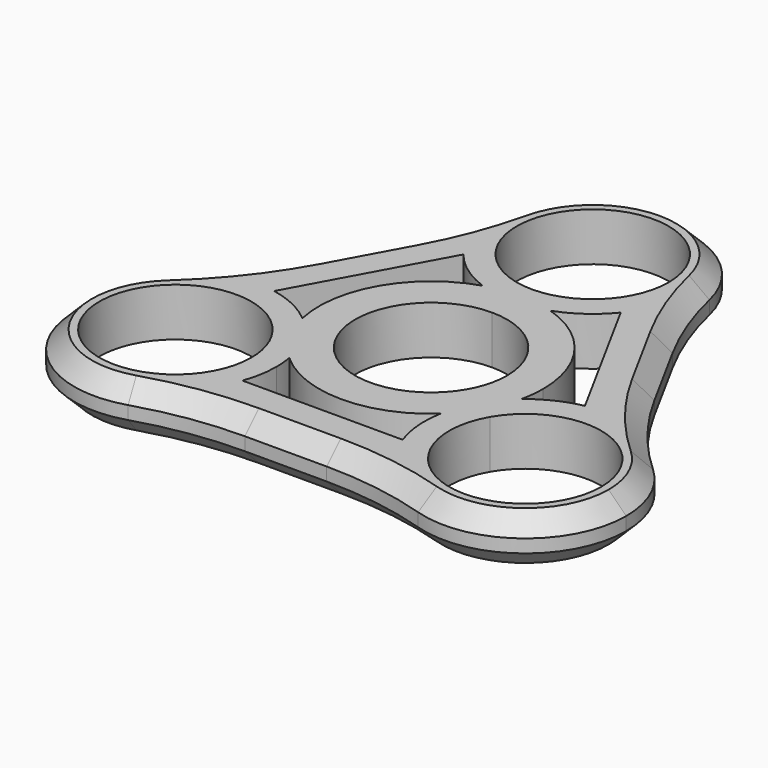
from build123d import *

# Parameters (mm, degrees)
F1_DEPTH = 6.985
F2_R     = 50.8
F3_SIZE  = 2.54


with BuildPart() as f1:
    # F0 (on Top) → F1 (new body)
    with BuildSketch(Plane.XY):
        with BuildLine():
            Line((-22.4686733496, -0.2763976852), (-11.3768203047, 20.0517258855))
            ThreePointArc((-11.3768203047, 20.0517258855), (-13.5749073132, 23.8222438401), (-14.5607446546, 28.0738925649))
            Line((-14.5607446546, 28.0738925649), (-30.3766020445, -0.9119497554))
            ThreePointArc((-30.3766020445, -0.9119497554), (-26.4666182407, -0.0469408196), (-22.4686733496, -0.2763976852))
        make_face()
        with BuildLine():
            ThreePointArc((14.5607446546, 28.0738925649), (13.5749073132, 23.8222438401), (11.3768203047, 20.0517258855))
            Line((11.3768203047, 20.0517258855), (22.4686733496, -0.2763976852))
            ThreePointArc((22.4686733496, -0.2763976852), (26.4666182407, -0.0469408196), (30.3766020445, -0.9119497554))
            Line((30.3766020445, -0.9119497554), (14.5607446546, 28.0738925649))
        make_face()
        with BuildLine():
            ThreePointArc((-4.8932738406, 15.4491171751), (-2.4756966767, 16.0153138069), (0, 16.2055345598))
            ThreePointArc((0, 16.2055345598), (2.4756966767, 16.0153138069), (4.8932738406, 15.4491171751))
            ThreePointArc((4.8932738406, 15.4491171751), (8.4542884153, 17.3007165459), (11.3768203047, 20.0517258855))
            ThreePointArc((11.3768203047, 20.0517258855), (13.5749073132, 23.8222438401), (14.5607446546, 28.0738925649))
            ThreePointArc((14.5607446546, 28.0738925649), (14.5939319698, 28.6415154708), (14.605, 29.21))
            ThreePointArc((14.605, 29.21), (-0.5684845292, 43.8039319698), (-14.5607446546, 28.0738925649))
            ThreePointArc((-14.5607446546, 28.0738925649), (-13.5749073132, 23.8222438401), (-11.3768203047, 20.0517258855))
            ThreePointArc((-11.3768203047, 20.0517258855), (-8.4542884153, 17.3007165459), (-4.8932738406, 15.4491171751))
        make_face()
        with BuildLine():
            ThreePointArc((10.9855, 29.21), (7.7679215447, 21.4420784553), (0, 18.2245))
            ThreePointArc((0, 18.2245), (-7.7679215447, 36.9779215447), (10.9855, 29.21))
        make_face(mode=Mode.SUBTRACT)
        with BuildLine():
            Line((0, 16.2055345598), (0, 14.605))
            ThreePointArc((0, 14.605), (2.4827737857, 14.8175763219), (4.8932738406, 15.4491171751))
            ThreePointArc((4.8932738406, 15.4491171751), (2.4756966767, 16.0153138069), (0, 16.2055345598))
        make_face()
        with BuildLine():
            ThreePointArc((-4.8932738406, 15.4491171751), (-2.4827737857, 14.8175763219), (0, 14.605))
            Line((0, 14.605), (0, 16.2055345598))
            ThreePointArc((0, 16.2055345598), (-2.4756966767, 16.0153138069), (-4.8932738406, 15.4491171751))
        make_face()
        with BuildLine():
            ThreePointArc((0, 10.9855), (7.7679215447, 7.7679215447), (10.9855, 0))
            ThreePointArc((10.9855, 0), (10.6111781647, -2.84325662), (9.5137220733, -5.49275))
            Line((9.5137220733, -5.49275), (12.6483010223, -7.3025))
            ThreePointArc((12.6483010223, -7.3025), (14.0737844102, -5.2586429907), (15.82596486, -3.4868591339))
            ThreePointArc((15.82596486, -3.4868591339), (16.1103626721, -1.7537288685), (16.2055345598, 0))
            ThreePointArc((16.2055345598, 0), (13.0751189039, 9.5739550875), (4.8932738406, 15.4491171751))
            ThreePointArc((4.8932738406, 15.4491171751), (2.4827737857, 14.8175763219), (0, 14.605))
            Line((0, 14.605), (0, 10.9855))
        make_face()
        with BuildLine():
            ThreePointArc((-9.5137220733, -5.49275), (-9.5137220733, 5.49275), (0, 10.9855))
            Line((0, 10.9855), (0, 14.605))
            ThreePointArc((0, 14.605), (-2.4827737857, 14.8175763219), (-4.8932738406, 15.4491171751))
            ThreePointArc((-4.8932738406, 15.4491171751), (-14.0344046107, 8.1027672799), (-15.82596486, -3.4868591339))
            ThreePointArc((-15.82596486, -3.4868591339), (-14.0737844102, -5.2586429907), (-12.6483010223, -7.3025))
            Line((-12.6483010223, -7.3025), (-9.5137220733, -5.49275))
        make_face()
        with BuildLine():
            Line((12.6483010223, -7.3025), (9.5137220733, -5.49275))
            ThreePointArc((9.5137220733, -5.49275), (0, -10.9855), (-9.5137220733, -5.49275))
            Line((-9.5137220733, -5.49275), (-12.6483010223, -7.3025))
            ThreePointArc((-12.6483010223, -7.3025), (-11.5910106244, -9.5589333313), (-10.9326910194, -11.9622580412))
            ThreePointArc((-10.9326910194, -11.9622580412), (0, -16.2055345598), (10.9326910194, -11.9622580412))
            ThreePointArc((10.9326910194, -11.9622580412), (11.5910106244, -9.5589333313), (12.6483010223, -7.3025))
        make_face()
        with BuildLine():
            ThreePointArc((16.51, -26.2712611625), (13.5628030503, -23.3012052737), (11.5786636953, -19.6174038591))
            Line((11.5786636953, -19.6174038591), (-11.5786636953, -19.6174038591))
            ThreePointArc((-11.5786636953, -19.6174038591), (-13.5628030503, -23.3012052737), (-16.51, -26.2712611625))
            Line((-16.51, -26.2712611625), (16.51, -26.2712611625))
        make_face()
        with BuildLine():
            ThreePointArc((-10.9326910194, -11.9622580412), (-12.6318202681, -10.1516731175), (-14.0344046107, -8.1027672799))
            ThreePointArc((-14.0344046107, -8.1027672799), (-15.1075169447, -5.8636406894), (-15.82596486, -3.4868591339))
            ThreePointArc((-15.82596486, -3.4868591339), (-18.94125419, -1.4552631719), (-22.4686733496, -0.2763976852))
            ThreePointArc((-22.4686733496, -0.2763976852), (-26.4666182407, -0.0469408196), (-30.3766020445, -0.9119497554))
            ThreePointArc((-30.3766020445, -0.9119497554), (-38.1109843332, -21.6119702127), (-16.51, -26.2712611625))
            ThreePointArc((-16.51, -26.2712611625), (-13.5628030503, -23.3012052737), (-11.5786636953, -19.6174038591))
            ThreePointArc((-11.5786636953, -19.6174038591), (-10.9150771847, -17.1501459103), (-10.6916020445, -14.605))
            ThreePointArc((-10.6916020445, -14.605), (-10.7519991706, -13.2781419674), (-10.9326910194, -11.9622580412))
        make_face()
        with BuildLine():
            ThreePointArc((-14.3111020445, -14.605), (-35.9077802092, -17.44825662), (-15.7828799713, -9.11225))
            ThreePointArc((-15.7828799713, -9.11225), (-14.6854238798, -11.76174338), (-14.3111020445, -14.605))
        make_face(mode=Mode.SUBTRACT)
        with BuildLine():
            ThreePointArc((-10.9326910194, -11.9622580412), (-11.5910106244, -9.5589333313), (-12.6483010223, -7.3025))
            Line((-12.6483010223, -7.3025), (-14.0344046107, -8.1027672799))
            ThreePointArc((-14.0344046107, -8.1027672799), (-12.6318202681, -10.1516731175), (-10.9326910194, -11.9622580412))
        make_face()
        with BuildLine():
            Line((-14.0344046107, -8.1027672799), (-12.6483010223, -7.3025))
            ThreePointArc((-12.6483010223, -7.3025), (-14.0737844102, -5.2586429907), (-15.82596486, -3.4868591339))
            ThreePointArc((-15.82596486, -3.4868591339), (-15.1075169447, -5.8636406894), (-14.0344046107, -8.1027672799))
        make_face()
        with BuildLine():
            Line((14.0344046107, -8.1027672799), (12.6483010223, -7.3025))
            ThreePointArc((12.6483010223, -7.3025), (11.5910106244, -9.5589333313), (10.9326910194, -11.9622580412))
            ThreePointArc((10.9326910194, -11.9622580412), (12.6318202681, -10.1516731175), (14.0344046107, -8.1027672799))
        make_face()
        with BuildLine():
            ThreePointArc((15.82596486, -3.4868591339), (15.1075169447, -5.8636406894), (14.0344046107, -8.1027672799))
            ThreePointArc((14.0344046107, -8.1027672799), (12.6318202681, -10.1516731175), (10.9326910194, -11.9622580412))
            ThreePointArc((10.9326910194, -11.9622580412), (10.7433247351, -15.8330653708), (11.5786636953, -19.6174038591))
            ThreePointArc((11.5786636953, -19.6174038591), (13.5628030503, -23.3012052737), (16.51, -26.2712611625))
            ThreePointArc((16.51, -26.2712611625), (31.8149493097, -27.6747044316), (39.9016020445, -14.605))
            ThreePointArc((39.9016020445, -14.605), (37.2861688632, -6.2649572843), (30.3766020445, -0.9119497554))
            ThreePointArc((30.3766020445, -0.9119497554), (26.4666182407, -0.0469408196), (22.4686733496, -0.2763976852))
            ThreePointArc((22.4686733496, -0.2763976852), (18.94125419, -1.4552631719), (15.82596486, -3.4868591339))
        make_face()
        with BuildLine():
            ThreePointArc((36.2821020445, -14.605), (22.4533454246, -25.2161781647), (15.7828799713, -9.11225))
            ThreePointArc((15.7828799713, -9.11225), (28.1398586645, -3.9938218353), (36.2821020445, -14.605))
        make_face(mode=Mode.SUBTRACT)
        with BuildLine():
            ThreePointArc((15.82596486, -3.4868591339), (14.0737844102, -5.2586429907), (12.6483010223, -7.3025))
            Line((12.6483010223, -7.3025), (14.0344046107, -8.1027672799))
            ThreePointArc((14.0344046107, -8.1027672799), (15.1075169447, -5.8636406894), (15.82596486, -3.4868591339))
        make_face()
    extrude(amount=F1_DEPTH)

    # F2
    f2_edges = [f1.edges().sort_by_distance(p)[0] for p in [
        (-14.560745, 28.073893, 3.4925),
        (-30.376602, -0.91195, 3.4925),
        (16.51, -26.271261, 3.4925),
        (-16.51, -26.271261, 3.4925),
        (14.560745, 28.073893, 3.4925),
        (30.376602, -0.91195, 3.4925),
    ]]
    fillet(f2_edges, radius=F2_R)

    # F3
    f3_edges = [f1.edges().sort_by_distance(p)[0] for p in [
        (-37.972945, -21.858713, 0),
        (-37.972945, -21.858713, 6.985),
    ]]
    chamfer(f3_edges, length=F3_SIZE)


solid = f1.part
